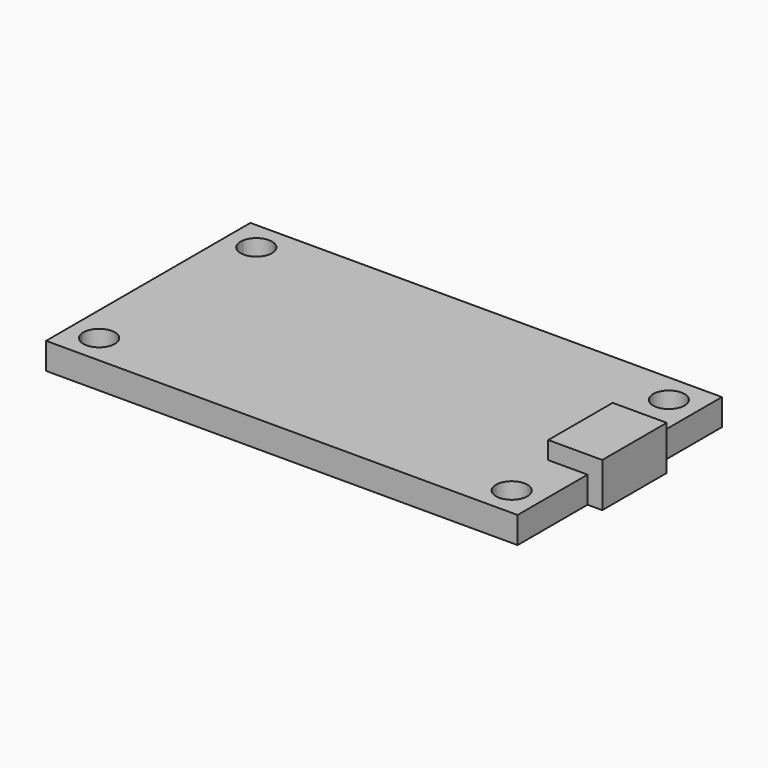
from build123d import *

# Parameters (mm, degrees)
F0_R     = 1.6
F0_W     = 25
F0_H     = 16
F0_W_2   = 1.5
F0_H_2   = 8.2
F1_DEPTH = 2.7
F0_W_3   = 4
F2_DEPTH = 4.5


with BuildPart() as f1:
    # F0 (on Top) → F1 (new body)
    with BuildSketch(Plane.XY):
        with BuildLine():
            Line((-24, -10.3), (-24, -13))
            Line((-24, -13), (14, -13))
            Line((14, -13), (14, -10.3))
            Line((14, -10.3), (-19.428377, -10.3))
            ThreePointArc((-19.428377, -10.3), (-21, -11.6), (-22.571623, -10.3))
            Line((-22.571623, -10.3), (-24, -10.3))
        make_face()
        with BuildLine():
            Line((14, -10.3), (14, -13))
            Line((14, -13), (24, -13))
            Line((24, -13), (24, -4.1))
            Line((24, -4.1), (20, -4.1))
            Line((20, -4.1), (20, 4.1))
            Line((20, 4.1), (24, 4.1))
            Line((24, 4.1), (24, 13))
            Line((24, 13), (14, 13))
            Line((14, 13), (14, 10.3))
            Line((14, 10.3), (-19.428377, 10.3))
            ThreePointArc((-19.428377, 10.3), (-19.40711, 10.15067), (-19.4, 10))
            ThreePointArc((-19.4, 10), (-21.15067, 8.40711), (-22.571623, 10.3))
            Line((-22.571623, 10.3), (-24, 10.3))
            Line((-24, 10.3), (-24, 8))
            Line((-24, 8), (1, 8))
            Line((1, 8), (1, -8))
            Line((1, -8), (-24, -8))
            Line((-24, -8), (-24, -10.3))
            Line((-24, -10.3), (-22.571623, -10.3))
            ThreePointArc((-22.571623, -10.3), (-21.15067, -8.40711), (-19.4, -10))
            ThreePointArc((-19.4, -10), (-19.40711, -10.15067), (-19.428377, -10.3))
            Line((-19.428377, -10.3), (14, -10.3))
        make_face()
        with Locations((21, -10)):
            Circle(F0_R, mode=Mode.SUBTRACT)
        with Locations((21, 10)):
            Circle(F0_R, mode=Mode.SUBTRACT)
        with Locations((-11.5, 0)):
            Rectangle(F0_W, F0_H)
        with Locations((24.75, 0)):
            Rectangle(F0_W_2, F0_H_2)
        with BuildLine():
            Line((-24, 13), (-24, 10.3))
            Line((-24, 10.3), (-22.571623, 10.3))
            ThreePointArc((-22.571623, 10.3), (-21, 11.6), (-19.428377, 10.3))
            Line((-19.428377, 10.3), (14, 10.3))
            Line((14, 10.3), (14, 13))
            Line((14, 13), (-24, 13))
        make_face()
    extrude(amount=F1_DEPTH)

    # F0 (on Top) → F2 (join)
    with BuildSketch(Plane.XY):
        with Locations((22, 0)):
            Rectangle(F0_W_3, F0_H_2)
        with Locations((24.75, 0)):
            Rectangle(F0_W_2, F0_H_2)
    extrude(amount=F2_DEPTH)


solid = f1.part
